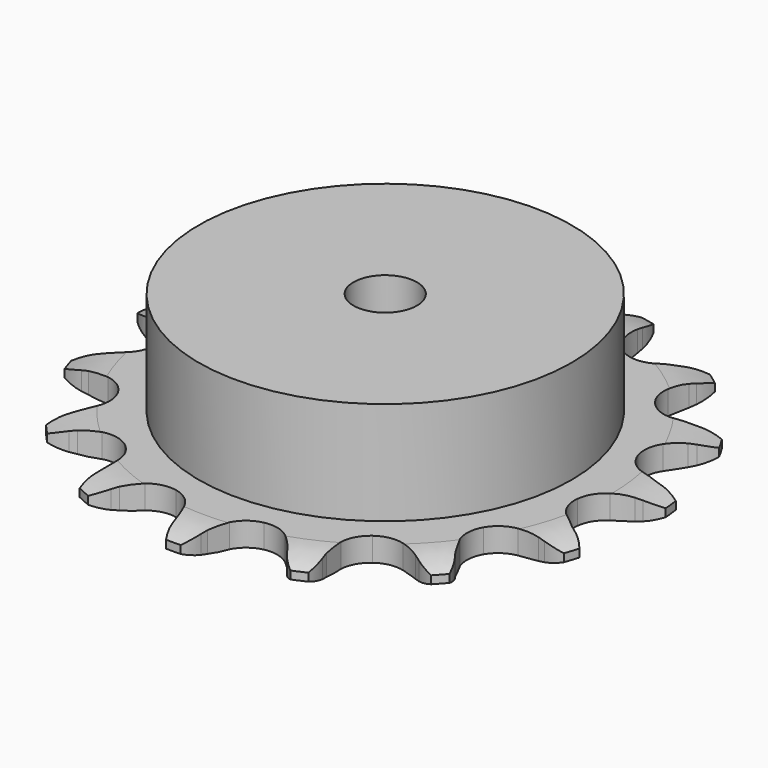
from build123d import *

# Parameters (mm, degrees)
PAD_DEPTH         = 3
SKETCH001_R       = 23.5
PAD001_DEPTH      = 16
SKETCH002_R       = 4
POCKET_DEPTH      = 0.001
POCKET_DEPTH_BACK = -16.001


with BuildPart() as part:
    # Sprocket → Pad (new body)
    with BuildSketch(Plane.XY):
        with BuildLine():
            ThreePointArc((-7.174719, 33.754398), (-5.759178, 32.548149), (-4.745989, 30.988586))
            Line((-4.745989, 30.988586), (-4.384667, 30.204217))
            ThreePointArc((-4.384667, 30.204217), (-3.786993, 29.094217), (-3.056107, 28.067026))
            ThreePointArc((-3.056107, 28.067026), (-1.692974, 26.992419), (0, 26.609338))
            ThreePointArc((0, 26.609338), (1.692974, 26.992419), (3.056107, 28.067026))
            ThreePointArc((3.056107, 28.067026), (3.786993, 29.094217), (4.384667, 30.204217))
            Line((4.384667, 30.204217), (4.745989, 30.988586))
            ThreePointArc((4.745989, 30.988586), (5.759178, 32.548149), (7.174719, 33.754398))
            ThreePointArc((7.174719, 33.754398), (7.977254, 32.076683), (8.268517, 30.23985))
            Line((8.268517, 30.23985), (8.27957, 29.37633))
            ThreePointArc((8.27957, 29.37633), (8.374094, 28.119198), (8.623995, 26.883535))
            ThreePointArc((8.623995, 26.883535), (9.432197, 25.347396), (10.822993, 24.30884))
            ThreePointArc((10.822993, 24.30884), (12.525415, 23.970207), (14.207781, 24.397474))
            Line((14.207781, 24.397474), (16.290754, 25.809521))
            ThreePointArc((16.290754, 25.809521), (16.609241, 26.101236), (16.93987, 26.379114))
            ThreePointArc((16.93987, 26.379114), (18.499796, 27.391745), (20.283582, 27.917956))
            ThreePointArc((20.283582, 27.917956), (20.334346, 26.058866), (19.853321, 24.262368))
            Line((19.853321, 24.262368), (19.512193, 23.469008))
            ThreePointArc((19.512193, 23.469008), (19.087224, 22.282115), (18.812931, 21.051637))
            ThreePointArc((18.812931, 21.051637), (18.926456, 19.319579), (19.774592, 17.805123))
            ThreePointArc((19.774592, 17.805123), (21.192097, 16.803329), (22.9028, 16.509376))
            Line((22.9028, 16.509376), (25.380022, 16.952124))
            ThreePointArc((25.380022, 16.952124), (25.789626, 17.089079), (26.204694, 17.208454))
            ThreePointArc((26.204694, 17.208454), (28.041631, 17.499059), (29.88523, 17.254245))
            ThreePointArc((29.88523, 17.254245), (29.175445, 15.535235), (28.005305, 14.089703))
            Line((28.005305, 14.089703), (27.370981, 13.503682))
            ThreePointArc((27.370981, 13.503682), (26.499999, 12.592252), (25.748939, 11.579719))
            ThreePointArc((25.748939, 11.579719), (25.148158, 9.95123), (25.306984, 8.222738))
            ThreePointArc((25.306984, 8.222738), (26.194474, 6.731002), (27.637717, 5.766658))
            Line((27.637717, 5.766658), (30.080854, 5.163551))
            ThreePointArc((30.080854, 5.163551), (30.51075, 5.122064), (30.938488, 5.062296))
            ThreePointArc((30.938488, 5.062296), (32.734813, 4.580627), (34.31945, 3.60712))
            ThreePointArc((34.31945, 3.60712), (32.971845, 2.325421), (31.314918, 1.480801))
            Line((31.314918, 1.480801), (30.497078, 1.203447))
            ThreePointArc((30.497078, 1.203447), (29.330684, 0.725074), (28.232722, 0.105562))
            ThreePointArc((28.232722, 0.105562), (27.021516, -1.137776), (26.463569, -2.781433))
            ThreePointArc((26.463569, -2.781433), (26.667588, -4.505176), (27.593822, -5.973169))
            Line((27.593822, -5.973169), (29.580433, -7.517847))
            ThreePointArc((29.580433, -7.517847), (29.956288, -7.730601), (30.322736, -7.959179))
            ThreePointArc((30.322736, -7.959179), (31.767849, -9.129837), (32.819525, -10.66371))
            ThreePointArc((32.819525, -10.66371), (31.067113, -11.28648), (29.209897, -11.384146))
            Line((29.209897, -11.384146), (28.349953, -11.304876))
            ThreePointArc((28.349953, -11.304876), (27.089827, -11.267476), (25.834811, -11.386847))
            ThreePointArc((25.834811, -11.386847), (24.222608, -12.030051), (23.044363, -13.304669))
            ThreePointArc((23.044363, -13.304669), (22.529634, -14.962368), (22.778704, -16.68018))
            Line((22.778704, -16.68018), (23.965286, -18.899341))
            ThreePointArc((23.965286, -18.899341), (24.222112, -19.246576), (24.463908, -19.60444))
            ThreePointArc((24.463908, -19.60444), (25.307935, -21.261669), (25.644806, -23.090687))
            ThreePointArc((25.644806, -23.090687), (23.790595, -22.946846), (22.05422, -22.28067))
            Line((22.05422, -22.28067), (21.300863, -21.858483))
            ThreePointArc((21.300863, -21.858483), (20.164893, -21.311777), (18.969827, -20.910367))
            ThreePointArc((18.969827, -20.910367), (17.235391, -20.84222), (15.640577, -21.527407))
            ThreePointArc((15.640577, -21.527407), (14.496101, -22.832431), (14.024942, -24.503036))
            Line((14.024942, -24.503036), (14.206324, -27.012967))
            ThreePointArc((14.206324, -27.012967), (14.299713, -27.434643), (14.375048, -27.859915))
            ThreePointArc((14.375048, -27.859915), (14.472049, -29.717166), (14.035868, -31.525075))
            ThreePointArc((14.035868, -31.525075), (12.400467, -30.639493), (11.085167, -29.324664))
            Line((11.085167, -29.324664), (10.568661, -28.632559))
            ThreePointArc((10.568661, -28.632559), (9.753266, -27.671078), (8.824787, -26.818294))
            ThreePointArc((8.824787, -26.818294), (7.268018, -26.050581), (5.532392, -26.02786))
            ThreePointArc((5.532392, -26.02786), (3.956061, -26.754559), (2.846139, -28.089095))
            Line((2.846139, -28.089095), (1.990959, -30.455806))
            ThreePointArc((1.990959, -30.455806), (1.904763, -30.879011), (1.800612, -31.298158))
            ThreePointArc((1.800612, -31.298158), (1.133814, -33.034294), (0, -34.508491))
            ThreePointArc((0, -34.508491), (-1.133814, -33.034294), (-1.800612, -31.298158))
            Line((-1.800612, -31.298158), (-1.990959, -30.455806))
            ThreePointArc((-1.990959, -30.455806), (-2.34479, -29.245798), (-2.846139, -28.089095))
            ThreePointArc((-2.846139, -28.089095), (-3.956061, -26.754559), (-5.532392, -26.02786))
            ThreePointArc((-5.532392, -26.02786), (-7.268018, -26.050581), (-8.824787, -26.818294))
            Line((-8.824787, -26.818294), (-10.568661, -28.632559))
            ThreePointArc((-10.568661, -28.632559), (-10.819537, -28.984117), (-11.085167, -29.324664))
            ThreePointArc((-11.085167, -29.324664), (-12.400467, -30.639493), (-14.035868, -31.525075))
            ThreePointArc((-14.035868, -31.525075), (-14.472049, -29.717166), (-14.375048, -27.859915))
            Line((-14.375048, -27.859915), (-14.206324, -27.012967))
            ThreePointArc((-14.206324, -27.012967), (-14.03741, -25.763654), (-14.024942, -24.503036))
            ThreePointArc((-14.024942, -24.503036), (-14.496101, -22.832431), (-15.640577, -21.527407))
            ThreePointArc((-15.640577, -21.527407), (-17.235391, -20.84222), (-18.969827, -20.910367))
            Line((-18.969827, -20.910367), (-21.300863, -21.858483))
            ThreePointArc((-21.300863, -21.858483), (-21.673041, -22.077606), (-22.05422, -22.28067))
            ThreePointArc((-22.05422, -22.28067), (-23.790595, -22.946846), (-25.644806, -23.090687))
            ThreePointArc((-25.644806, -23.090687), (-25.307935, -21.261669), (-24.463908, -19.60444))
            Line((-24.463908, -19.60444), (-23.965286, -18.899341))
            ThreePointArc((-23.965286, -18.899341), (-23.302834, -17.826741), (-22.778704, -16.68018))
            ThreePointArc((-22.778704, -16.68018), (-22.529634, -14.962368), (-23.044363, -13.304669))
            ThreePointArc((-23.044363, -13.304669), (-24.222608, -12.030051), (-25.834811, -11.386847))
            Line((-25.834811, -11.386847), (-28.349953, -11.304876))
            ThreePointArc((-28.349953, -11.304876), (-28.77908, -11.353677), (-29.209897, -11.384146))
            ThreePointArc((-29.209897, -11.384146), (-31.067113, -11.28648), (-32.819525, -10.66371))
            ThreePointArc((-32.819525, -10.66371), (-31.767849, -9.129837), (-30.322736, -7.959179))
            Line((-30.322736, -7.959179), (-29.580433, -7.517847))
            ThreePointArc((-29.580433, -7.517847), (-28.538987, -6.807421), (-27.593822, -5.973169))
            ThreePointArc((-27.593822, -5.973169), (-26.667588, -4.505176), (-26.463569, -2.781433))
            ThreePointArc((-26.463569, -2.781433), (-27.021516, -1.137776), (-28.232722, 0.105562))
            Line((-28.232722, 0.105562), (-30.497078, 1.203447))
            ThreePointArc((-30.497078, 1.203447), (-30.908954, 1.333407), (-31.314918, 1.480801))
            ThreePointArc((-31.314918, 1.480801), (-32.971845, 2.325421), (-34.31945, 3.60712))
            ThreePointArc((-34.31945, 3.60712), (-32.734813, 4.580627), (-30.938488, 5.062296))
            Line((-30.938488, 5.062296), (-30.080854, 5.163551))
            ThreePointArc((-30.080854, 5.163551), (-28.84049, 5.388963), (-27.637717, 5.766658))
            ThreePointArc((-27.637717, 5.766658), (-26.194474, 6.731002), (-25.306984, 8.222738))
            ThreePointArc((-25.306984, 8.222738), (-25.148158, 9.95123), (-25.748939, 11.579719))
            Line((-25.748939, 11.579719), (-27.370981, 13.503682))
            ThreePointArc((-27.370981, 13.503682), (-27.694389, 13.789932), (-28.005305, 14.089703))
            ThreePointArc((-28.005305, 14.089703), (-29.175445, 15.535235), (-29.88523, 17.254245))
            ThreePointArc((-29.88523, 17.254245), (-28.041631, 17.499059), (-26.204694, 17.208454))
            Line((-26.204694, 17.208454), (-25.380022, 16.952124))
            ThreePointArc((-25.380022, 16.952124), (-24.15521, 16.653547), (-22.9028, 16.509376))
            ThreePointArc((-22.9028, 16.509376), (-21.192097, 16.803329), (-19.774592, 17.805123))
            ThreePointArc((-19.774592, 17.805123), (-18.926456, 19.319579), (-18.812931, 21.051637))
            Line((-18.812931, 21.051637), (-19.512193, 23.469008))
            ThreePointArc((-19.512193, 23.469008), (-19.691213, 23.862052), (-19.853321, 24.262368))
            ThreePointArc((-19.853321, 24.262368), (-20.334346, 26.058866), (-20.283582, 27.917956))
            ThreePointArc((-20.283582, 27.917956), (-18.499796, 27.391745), (-16.93987, 26.379114))
            Line((-16.93987, 26.379114), (-16.290754, 25.809521))
            ThreePointArc((-16.290754, 25.809521), (-15.293274, 25.038581), (-14.207781, 24.397474))
            ThreePointArc((-14.207781, 24.397474), (-12.525415, 23.970207), (-10.822993, 24.30884))
            ThreePointArc((-10.822993, 24.30884), (-9.432197, 25.347396), (-8.623995, 26.883535))
            Line((-8.623995, 26.883535), (-8.27957, 29.37633))
            ThreePointArc((-8.27957, 29.37633), (-8.283247, 29.808208), (-8.268517, 30.23985))
            ThreePointArc((-8.268517, 30.23985), (-7.977254, 32.076683), (-7.174719, 33.754398))
        make_face()
    extrude(amount=PAD_DEPTH)

    # Sketch → Groove (revolve, cut)
    with BuildSketch(Plane.XZ):
        with BuildLine():
            Line((28.4, 0), (33.4, 0))
            Line((38.4, 0), (33.4, 0))
            Line((38.4, 3), (38.4, 0))
            Line((33.4, 3), (38.4, 3))
            Line((28.4, 3), (33.4, 3))
            ThreePointArc((33.4, 2), (30.94951, 2.747549), (28.4, 3))
            Line((33.4, 1), (33.4, 2))
            ThreePointArc((28.4, 0), (30.94951, 0.252451), (33.4, 1))
        make_face()
    revolve(axis=Axis((0, 0, 0), (0, 0, 1)), mode=Mode.SUBTRACT)

    # Sketch001 → Pad001 (join)
    with BuildSketch(Plane.XY):
        Circle(SKETCH001_R)
    extrude(amount=PAD001_DEPTH)

    # Sketch002 → Pocket (cut, two sides)
    with BuildSketch(Plane.XY) as pocket_sk:
        Circle(SKETCH002_R)
    extrude(amount=-POCKET_DEPTH, mode=Mode.SUBTRACT)
    extrude(pocket_sk.sketch, amount=-POCKET_DEPTH_BACK, mode=Mode.SUBTRACT)


solid = part.part
